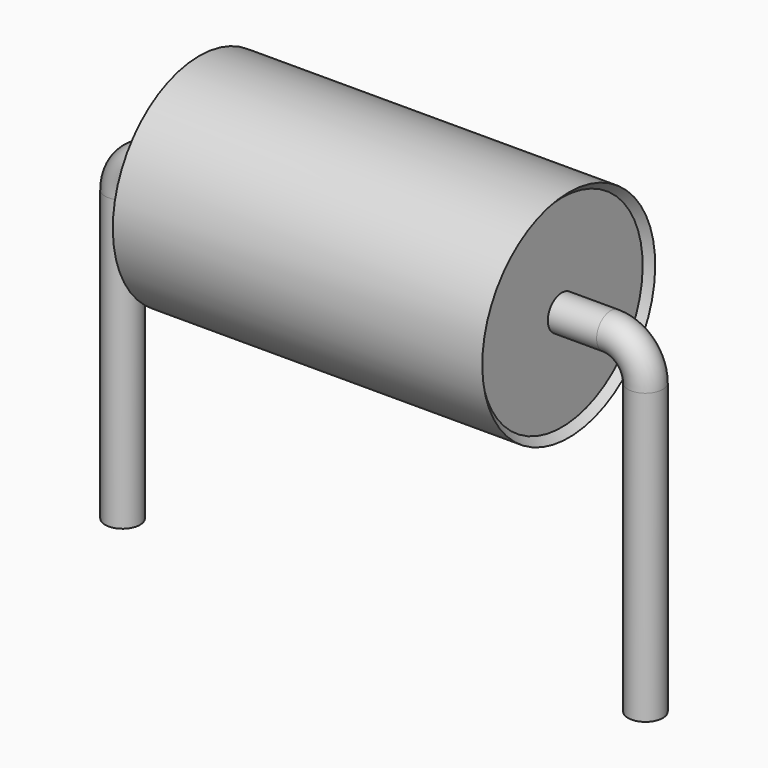
from build123d import *

# Parameters (mm, degrees)
SKETCH_R = 0.25


with BuildPart() as sweep_body:
    # Sweep: sweep along a path in Sketch001
    with BuildLine(Plane.XZ) as sweep_path:
        Line((0, -3), (0, 1.15))
        ThreePointArc((0, 1.15), (0.146449, 1.503555), (0.500006, 1.65))
        Line((0.500006, 1.65), (7, 1.65))
        ThreePointArc((7, 1.65), (7.353553, 1.503553), (7.5, 1.15))
        Line((7.5, 1.15), (7.5, -3))
    # Sketch → Sweep (sweep)
    with BuildSketch(Plane.XY.offset(-2)):
        Circle(SKETCH_R)
    sweep(path=sweep_path.line)


with BuildPart() as revolution:
    # Sketch002 → Revolution (revolve)
    with BuildSketch(Plane.XZ):
        Polygon((1.1, 3.2), (6.4, 3.2), (6.3, 3.1), (6.3, 1.65), (1.2, 1.65), (1.2, 3.1), align=None)
    revolve(axis=Axis((7.611803, 0, 1.65), (1, 0, 0)))


solid = Compound([sweep_body.part, revolution.part])
